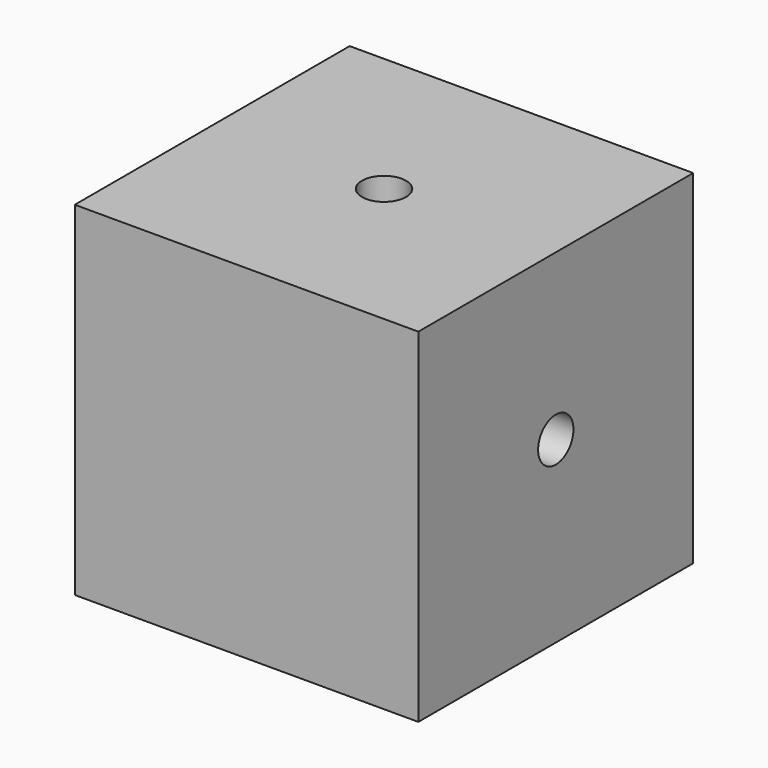
from build123d import *

# Parameters (mm, degrees)
F0_W     = 25.4
F0_H     = 25.4
F1_DEPTH = 25.4
F5_D     = 3.2639
F5_DEPTH = 7.62
F5_TIP   = 0.9805744872
F6_D     = 3.2639
F6_DEPTH = 7.62
F6_TIP   = 0.9805744872
F7_D     = 3.2639
F7_DEPTH = 7.62
F7_TIP   = 0.9805744872


with BuildPart() as f1:
    # F0 (on Top) → F1 (new body)
    with BuildSketch(Plane.XY):
        Rectangle(F0_W, F0_H)
    extrude(amount=F1_DEPTH)

    # F5
    with Locations(Plane.XY.offset(25.4)):
        with Locations((0, 0)):
            Hole(F5_D / 2, depth=F5_DEPTH)
            with Locations((0, 0, -(F5_DEPTH + F5_TIP / 2))):  # 118° drill point
                Cone(0, F5_D / 2, F5_TIP, mode=Mode.SUBTRACT)

    # F6
    with Locations(Plane.YZ.offset(12.7)):
        with Locations((0, 13.2126277313)):
            Hole(F6_D / 2, depth=F6_DEPTH)
            with Locations((0, 0, -(F6_DEPTH + F6_TIP / 2))):  # 118° drill point
                Cone(0, F6_D / 2, F6_TIP, mode=Mode.SUBTRACT)

    # F7
    with Locations(Plane(origin=(0, 12.7, 0), x_dir=(-1, 0, 0), z_dir=(0, 1, 0))):
        with Locations((0, 11.9171617553)):
            Hole(F7_D / 2, depth=F7_DEPTH)
            with Locations((0, 0, -(F7_DEPTH + F7_TIP / 2))):  # 118° drill point
                Cone(0, F7_D / 2, F7_TIP, mode=Mode.SUBTRACT)


solid = f1.part
